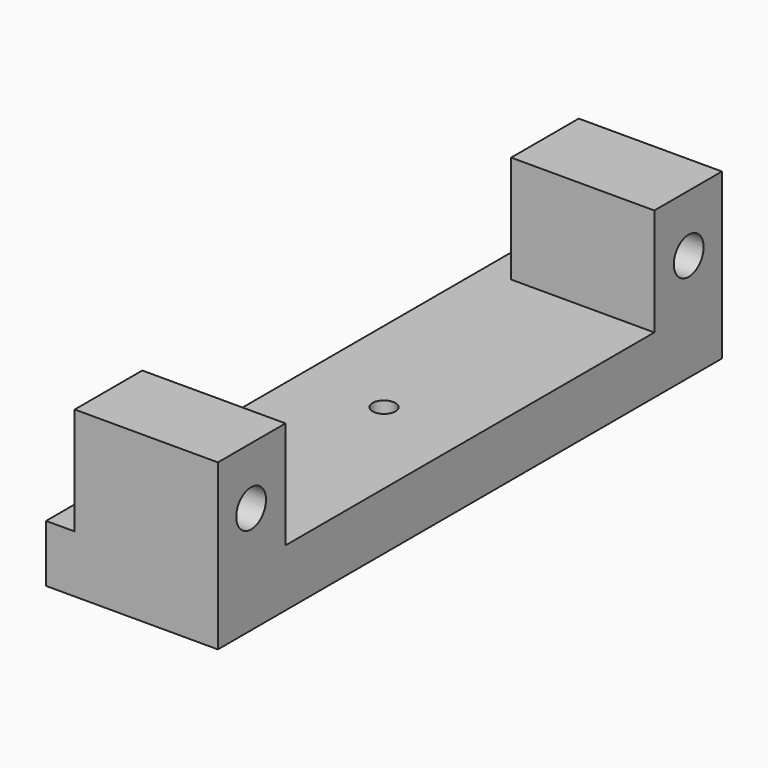
from build123d import *

# Parameters (mm, degrees)
F1_DEPTH  = 7.62
F3_R      = 1.651
F4_DEPTH  = 25.4
F6_DEPTH  = 2.54
F8_D      = 2.032
F9_W      = 7.493
F9_H      = 9.525
F9_R      = 1.651
F10_DEPTH = 2.54


with BuildPart() as f1:
    # F0 (on Right) → F1 (new body, symmetric)
    with BuildSketch(Plane.YZ):
        Polygon((0, 0), (0, -5.08), (27.94, -5.08), (27.94, 9.525), (20.447, 9.525), (20.447, 0), align=None)
    extrude(amount=F1_DEPTH, both=True)

    # F2: F1 across plane


with BuildPart() as f1_1:
    add(f1.part)
    add(f1.part.mirror(Plane.XZ))

    # F3 (on face) → F4 (cut)
    with BuildSketch(Plane.YZ.offset(7.62)):
        with Locations((-24.257, 4.445)):
            Circle(F3_R)
        with Locations((24.257, 4.445)):
            Circle(F3_R)
    extrude(amount=-F4_DEPTH, mode=Mode.SUBTRACT)

    # F5 (on face) → F6 (cut)
    with BuildSketch(Plane(origin=(0, 0, -5.08), x_dir=(1, 0, 0), z_dir=(0, 0, -1))):
        with BuildLine():
            Line((-3.164081, -0.263095), (-2.032, -13.877949))
            ThreePointArc((-2.032, -13.877949), (0, -15.748), (2.032, -13.877949))
            Line((2.032, -13.877949), (3.164081, -0.263095))
            ThreePointArc((3.164081, -0.263095), (3.175, 0), (3.164081, 0.263095))
            Line((3.164081, 0.263095), (2.032, 13.877949))
            ThreePointArc((2.032, 13.877949), (0, 15.748), (-2.032, 13.877949))
            Line((-2.032, 13.877949), (-3.164081, 0.263095))
            ThreePointArc((-3.164081, 0.263095), (-3.175, 0), (-3.164081, -0.263095))
        make_face()
    extrude(amount=-F6_DEPTH, mode=Mode.SUBTRACT)

    # F8 (through all)
    with Locations(Plane(origin=(0, 0, -2.54), x_dir=(1, 0, 0), z_dir=(0, 0, -1))):
        with Locations((0, 0)):
            Hole(F8_D / 2)

    # F9 (on face) → F10 (cut)
    with BuildSketch(Plane(origin=(-7.62, 0, 0), x_dir=(0, -1, 0), z_dir=(-1, 0, 0))):
        with Locations((-24.1935, 4.7625)):
            Rectangle(F9_W, F9_H)
        with Locations((-24.257, 4.445)):
            Circle(F9_R, mode=Mode.SUBTRACT)
        with Locations((-24.1935, 4.7625)):
            Rectangle(F9_W, F9_H)
        with Locations((-24.257, 4.445)):
            Circle(F9_R, mode=Mode.SUBTRACT)
        with Locations((24.1935, 4.7625)):
            Rectangle(F9_W, F9_H)
        with Locations((24.257, 4.445)):
            Circle(F9_R, mode=Mode.SUBTRACT)
    extrude(amount=-F10_DEPTH, mode=Mode.SUBTRACT)


solid = f1_1.part
